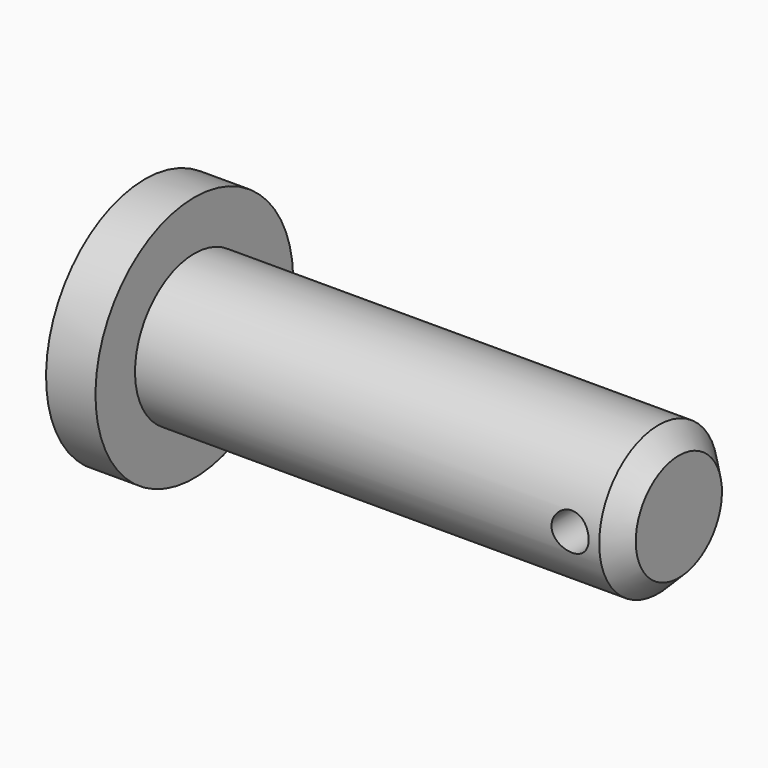
from build123d import *

# Parameters (mm, degrees)
F2_DEPTH = 12.7


with BuildPart() as f1:
    # F0 (on Front) → F1 (revolve)
    with BuildSketch(Plane.XZ):
        with BuildLine():
            Line((6.35, 9.525), (6.35, 0))
            Line((6.35, 0), (59.8424, 0))
            ThreePointArc((59.8424, 0), (62.23, 2.3876), (64.6176, 0))
            Line((64.6176, 0), (65.9725219011, 0))
            Line((65.9725219011, 0), (65.9725219011, 9.525))
            Line((65.9725219011, 9.525), (43.0678202391, 9.525))
            Line((43.0678202391, 9.525), (6.35, 9.525))
        make_face()
        Polygon((0, 15.875), (0, 0), (6.35, 0), (6.35, 9.525), (6.35, 15.875), align=None)
        Polygon((68.58, 6.9175219011), (65.9725219011, 9.525), (65.9725219011, 0), (68.58, 0), align=None)
    revolve(axis=Axis((27.4712196347, 0, 0), (1, 0, 0)))

    # F0 (on Front) → F2 (cut, symmetric)
    with BuildSketch(Plane.XZ):
        with BuildLine():
            ThreePointArc((64.6176, 0), (62.23, 2.3876), (59.8424, 0))
            Line((59.8424, 0), (64.6176, 0))
        make_face()
        with BuildLine():
            Line((64.6176, 0), (59.8424, 0))
            ThreePointArc((59.8424, 0), (62.23, -2.3876), (64.6176, 0))
        make_face()
    extrude(amount=F2_DEPTH, both=True, mode=Mode.SUBTRACT)


solid = f1.part
